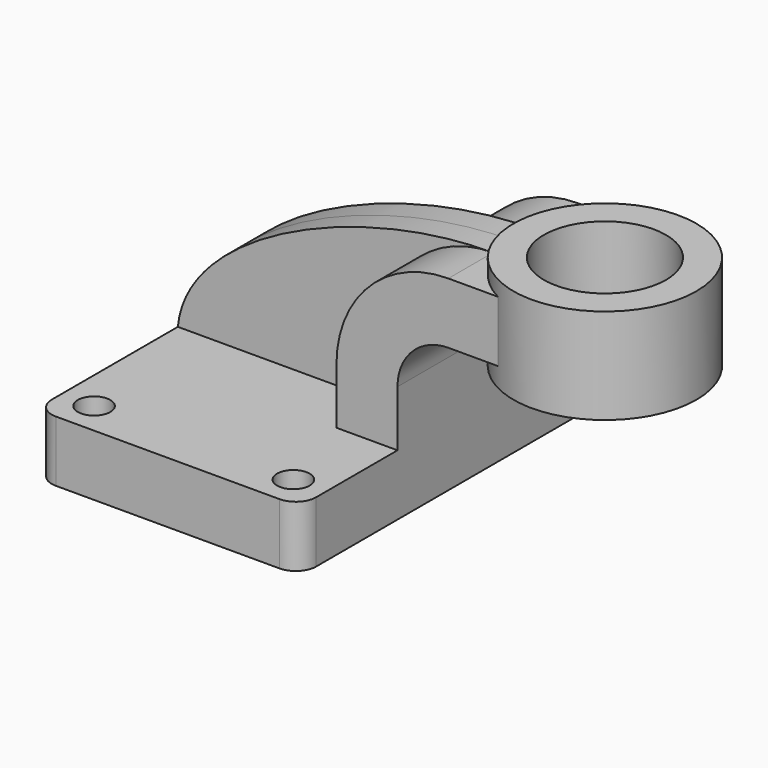
from build123d import *

# Parameters (mm, degrees)
F1_DEPTH = 63.5
F0_W     = 28.575
F0_H     = 19.05
F2_DEPTH = 25.4
F3_DEPTH = 7.9375
F5_R     = 6.35
F6_R     = 5.08
F7_DEPTH = 25.4
F8_R     = 19.05
F9_DEPTH = 36.83


with BuildPart() as f1:
    # F0 (on Front) → F1 (new body, symmetric)
    with BuildSketch(Plane.XZ):
        Polygon((41.275, -9.525), (41.275, 9.525), (22.225, 9.525), (-41.275, 9.525), (-41.275, -9.525), align=None)
    extrude(amount=F1_DEPTH, both=True)

    # F0 (on Front) → F2 (join, symmetric)
    with BuildSketch(Plane.XZ):
        with BuildLine():
            Line((22.225, 9.525), (41.275, 9.525))
            Line((41.275, 9.525), (41.275, 27.0002))
            ThreePointArc((41.275, 27.0002), (45.92468, 38.22552), (57.15, 42.8752))
            Line((57.15, 42.8752), (57.15, 61.9252))
            ThreePointArc((57.15, 61.9252), (32.454296, 51.695904), (22.225, 27.0002))
            Line((22.225, 27.0002), (22.225, 9.525))
        make_face()
        with Locations((71.4375, 52.4002)):
            Rectangle(F0_W, F0_H)
    extrude(amount=F2_DEPTH, both=True)

    # F0 (on Front) → F3 (join, symmetric)
    with BuildSketch(Plane.XZ):
        with BuildLine():
            Line((-41.275, 9.525), (22.225, 9.525))
            Line((22.225, 9.525), (22.225, 27.0002))
            ThreePointArc((22.225, 27.0002), (32.454296, 51.695904), (57.15, 61.9252))
            add(Edge.make_bspline(
                [(-41.275, 9.525), (-38.595248, 38.531583), (15.192084, 62.063541), (57.15, 61.9252)],
                knots=[0, 0, 0, 0, 111.504536, 111.504536, 111.504536, 111.504536], degree=3))
        make_face()
    extrude(amount=F3_DEPTH, both=True)

    # F0 (on Front) → F4 (revolve)
    with BuildSketch(Plane.XZ):
        Polygon((85.725, 61.9252), (85.725, 42.8752), (85.725, 36.837653), (114.3, 36.837653), (114.3, 66.675), (85.725, 66.675), align=None)
    revolve(axis=Axis((85.725, 0, 52.4002), (0, 0, -1)))

    # F5
    f5_edges = [f1.edges().sort_by_distance(p)[0] for p in [
        (-41.275, -63.5, 0),
        (41.275, -63.5, 0),
        (-41.275, 63.5, 0),
        (41.275, 63.5, 0),
    ]]
    fillet(f5_edges, radius=F5_R)

    # F6 (on face) → F7 (cut)
    with BuildSketch(Plane.XY.offset(9.525)):
        with Locations((-31.115, 53.34)):
            Circle(F6_R)
        with Locations((31.115, 53.34)):
            Circle(F6_R)
        with Locations((-31.115, -53.34)):
            Circle(F6_R)
        with Locations((31.115, -53.34)):
            Circle(F6_R)
    extrude(amount=-F7_DEPTH, mode=Mode.SUBTRACT)

    # F8 (on face) → F9 (cut)
    with BuildSketch(Plane.XY.offset(66.675)):
        with Locations((85.725, 0)):
            Circle(F8_R)
    extrude(amount=-F9_DEPTH, mode=Mode.SUBTRACT)


solid = f1.part
